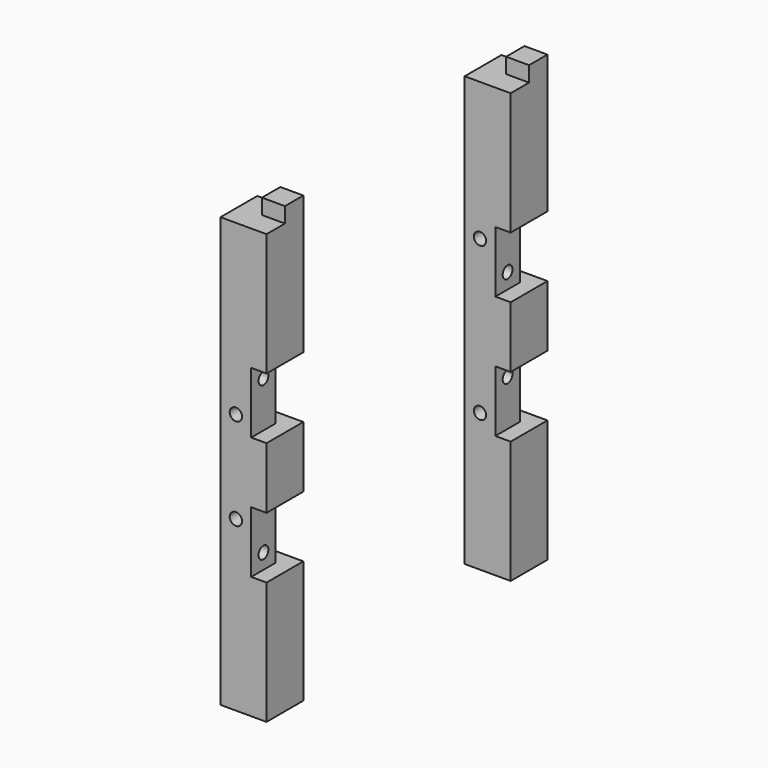
from build123d import *

# Parameters (mm, degrees)
F0_W      = 30
F0_H      = 30
F1_DEPTH  = 280
F2_W      = 15
F2_H      = 15
F3_DEPTH  = 10
F4_W      = 30
F4_H      = 40
F5_DEPTH  = 10
F6_W      = 20
F6_H      = 40
F7_DEPTH  = 10
F9_R      = 4
F10_DEPTH = 30.001
F11_R     = 4
F12_DEPTH = 30.001
F13_R     = 4
F14_DEPTH = 25
F15_R     = 4
F16_DEPTH = 25


with BuildPart() as f1:
    # F0 (on Top) → F1 (new body)
    with BuildSketch(Plane.XY):
        with Locations((15, 15)):
            Rectangle(F0_W, F0_H)
    extrude(amount=F1_DEPTH)

    # F2 (on face) → F3 (join)
    with BuildSketch(Plane.XY.offset(280)):
        with Locations((22.5, 22.5)):
            Rectangle(F2_W, F2_H)
    extrude(amount=F3_DEPTH)

    # F4 (on face) → F5 (cut)
    with BuildSketch(Plane(origin=(0, 30, 0), x_dir=(-1, 0, 0), z_dir=(0, 1, 0))):
        with Locations((-15, 180)):
            Rectangle(F4_W, F4_H)
        with Locations((-15, 100)):
            Rectangle(F4_W, F4_H)
    extrude(amount=-F5_DEPTH, mode=Mode.SUBTRACT)

    # F6 (on face) → F7 (cut)
    with BuildSketch(Plane.YZ.offset(30)):
        with Locations((10, 180)):
            Rectangle(F6_W, F6_H)
        with Locations((10, 100)):
            Rectangle(F6_W, F6_H)
    extrude(amount=-F7_DEPTH, mode=Mode.SUBTRACT)


with BuildPart() as f8_1:
    # F8: copy of F1
    add(f1.part.moved(Location((0, -199, 0))))

    # F13 (on face) → F14 (cut)
    with BuildSketch(Plane.XZ.offset(199)):
        with Locations((10, 170)):
            Circle(F13_R)
        with Locations((10, 110)):
            Circle(F13_R)
    extrude(amount=-F14_DEPTH, mode=Mode.SUBTRACT)

    # F15 (on face) → F16 (cut)
    with BuildSketch(Plane(origin=(0, 0, 0), x_dir=(0, -1, 0), z_dir=(-1, 0, 0))):
        with Locations((189, 190)):
            Circle(F15_R)
        with Locations((189, 90)):
            Circle(F15_R)
    extrude(amount=-F16_DEPTH, mode=Mode.SUBTRACT)


with BuildPart() as f1_1:
    add(f1.part)

    # F9 (on face) → F10 (cut, through all)
    with BuildSketch(Plane.XZ):
        with Locations((10, 190)):
            Circle(F9_R)
        with Locations((10, 90)):
            Circle(F9_R)
    extrude(amount=-F10_DEPTH, mode=Mode.SUBTRACT)

    # F11 (on face) → F12 (cut, through all)
    with BuildSketch(Plane(origin=(0, 0, 0), x_dir=(0, -1, 0), z_dir=(-1, 0, 0))):
        with Locations((-10, 110)):
            Circle(F11_R)
        with Locations((-10, 170)):
            Circle(F11_R)
    extrude(amount=-F12_DEPTH, mode=Mode.SUBTRACT)


solid = Compound([f8_1.part, f1_1.part])
